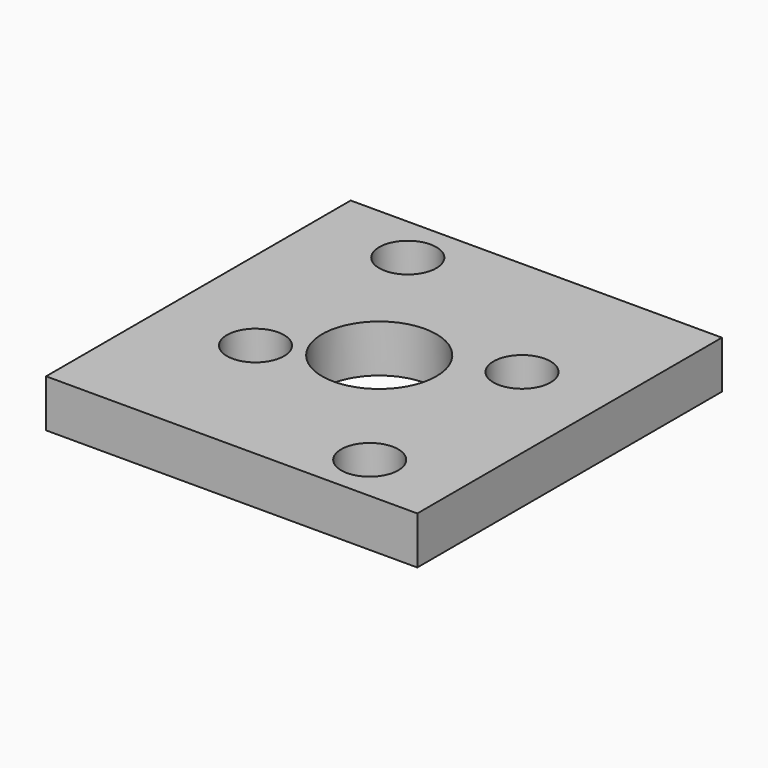
from build123d import *

# Parameters (mm, degrees)
SKETCH_W      = 39
SKETCH_H      = 40
PAD_DEPTH     = 5
SKETCH001_R   = 3
SKETCH001_R_2 = 6
POCKET_DEPTH  = 5.001


with BuildPart() as part:
    # Sketch → Pad (new body)
    with BuildSketch(Plane.XY):
        with Locations((19.5, 20)):
            Rectangle(SKETCH_W, SKETCH_H)
    extrude(amount=PAD_DEPTH)

    # Sketch001 (on Face6 of Pad) → Pocket (cut, through all)
    with BuildSketch(Plane.XY.offset(5)):
        with Locations((10, 35)):
            Circle(SKETCH001_R)
        with Locations((30, 25)):
            Circle(SKETCH001_R)
        with Locations((10, 15)):
            Circle(SKETCH001_R)
        with Locations((30, 5)):
            Circle(SKETCH001_R)
        with Locations((19, 20)):
            Circle(SKETCH001_R_2)
    extrude(amount=-POCKET_DEPTH, mode=Mode.SUBTRACT)


solid = part.part
